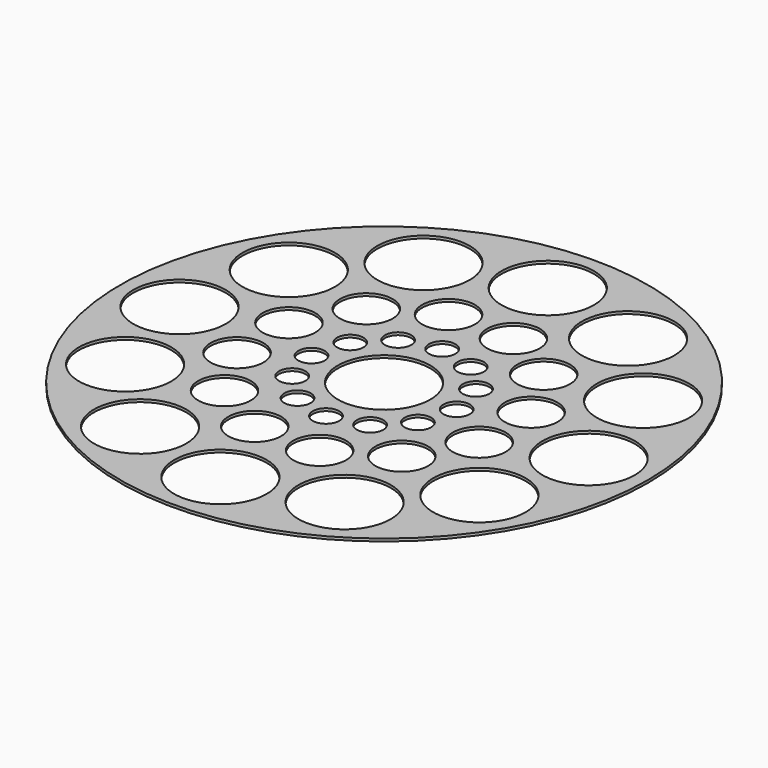
from build123d import *

# Parameters (mm, degrees)
F0_R     = 25.4
F0_R_2   = 4.445
F0_R_3   = 2.54
F0_R_4   = 1.27
F1_DEPTH = 0.254


with BuildPart() as f1:
    # F0 (on Top) → F1 (new body)
    with BuildSketch(Plane.XY):
        Circle(F0_R)
        with Locations((0, -19.685)):
            Circle(F0_R_2, mode=Mode.SUBTRACT)
        with Locations((-9.8425, -17.0477100735)):
            Circle(F0_R_2, mode=Mode.SUBTRACT)
        with Locations((-17.0477100735, -9.8425)):
            Circle(F0_R_2, mode=Mode.SUBTRACT)
        with Locations((-19.685, 0)):
            Circle(F0_R_2, mode=Mode.SUBTRACT)
        with Locations((-8.531243315, -8.531243315)):
            Circle(F0_R_3, mode=Mode.SUBTRACT)
        with Locations((-3.1226517792, -11.6538950942)):
            Circle(F0_R_3, mode=Mode.SUBTRACT)
        with Locations((0, -6.985)):
            Circle(F0_R_4, mode=Mode.SUBTRACT)
        with Locations((-11.6538950942, -3.1226517792)):
            Circle(F0_R_3, mode=Mode.SUBTRACT)
        with Locations((-6.985, 0)):
            Circle(F0_R_4, mode=Mode.SUBTRACT)
        with Locations((-3.4925, -6.0491874454)):
            Circle(F0_R_4, mode=Mode.SUBTRACT)
        with Locations((-6.0491874454, -3.4925)):
            Circle(F0_R_4, mode=Mode.SUBTRACT)
        with BuildLine():
            ThreePointArc((4.445, 0), (-4.4069724088, -0.5801889244), (4.2935402979, 1.1504506555))
            ThreePointArc((4.2935402979, 1.1504506555), (4.4069724088, 0.5801889244), (4.445, 0))
        make_face(mode=Mode.SUBTRACT)
        with Locations((9.8425, -17.0477100735)):
            Circle(F0_R_2, mode=Mode.SUBTRACT)
        with Locations((3.1226517792, -11.6538950942)):
            Circle(F0_R_3, mode=Mode.SUBTRACT)
        with Locations((8.531243315, -8.531243315)):
            Circle(F0_R_3, mode=Mode.SUBTRACT)
        with Locations((3.4925, -6.0491874454)):
            Circle(F0_R_4, mode=Mode.SUBTRACT)
        with Locations((6.0491874454, -3.4925)):
            Circle(F0_R_4, mode=Mode.SUBTRACT)
        with Locations((6.985, 0)):
            Circle(F0_R_4, mode=Mode.SUBTRACT)
        with Locations((11.6538950942, -3.1226517792)):
            Circle(F0_R_3, mode=Mode.SUBTRACT)
        with Locations((17.0477100735, -9.8425)):
            Circle(F0_R_2, mode=Mode.SUBTRACT)
        with Locations((19.685, 0)):
            Circle(F0_R_2, mode=Mode.SUBTRACT)
        with Locations((-17.0477100735, 9.8425)):
            Circle(F0_R_2, mode=Mode.SUBTRACT)
        with Locations((-11.6538950942, 3.1226517792)):
            Circle(F0_R_3, mode=Mode.SUBTRACT)
        with Locations((-6.0491874454, 3.4925)):
            Circle(F0_R_4, mode=Mode.SUBTRACT)
        with Locations((-3.4925, 6.0491874454)):
            Circle(F0_R_4, mode=Mode.SUBTRACT)
        with Locations((-8.531243315, 8.531243315)):
            Circle(F0_R_3, mode=Mode.SUBTRACT)
        with Locations((0, 6.985)):
            Circle(F0_R_4, mode=Mode.SUBTRACT)
        with Locations((-3.1226517792, 11.6538950942)):
            Circle(F0_R_3, mode=Mode.SUBTRACT)
        with Locations((-9.8425, 17.0477100735)):
            Circle(F0_R_2, mode=Mode.SUBTRACT)
        with Locations((0, 19.685)):
            Circle(F0_R_2, mode=Mode.SUBTRACT)
        with Locations((6.0491874454, 3.4925)):
            Circle(F0_R_4, mode=Mode.SUBTRACT)
        with Locations((3.4925, 6.0491874454)):
            Circle(F0_R_4, mode=Mode.SUBTRACT)
        with BuildLine():
            ThreePointArc((9.2004434954, 2.4652514046), (11.3223585659, 5.6409217271), (14.1938950942, 3.1226517792))
            ThreePointArc((14.1938950942, 3.1226517792), (11.9854316224, 0.6043818313), (9.2004434954, 2.4652514046))
        make_face(mode=Mode.SUBTRACT)
        with Locations((3.1226517792, 11.6538950942)):
            Circle(F0_R_3, mode=Mode.SUBTRACT)
        with Locations((8.531243315, 8.531243315)):
            Circle(F0_R_3, mode=Mode.SUBTRACT)
        with Locations((17.0477100735, 9.8425)):
            Circle(F0_R_2, mode=Mode.SUBTRACT)
        with Locations((9.8425, 17.0477100735)):
            Circle(F0_R_2, mode=Mode.SUBTRACT)
    extrude(amount=F1_DEPTH)


solid = f1.part
